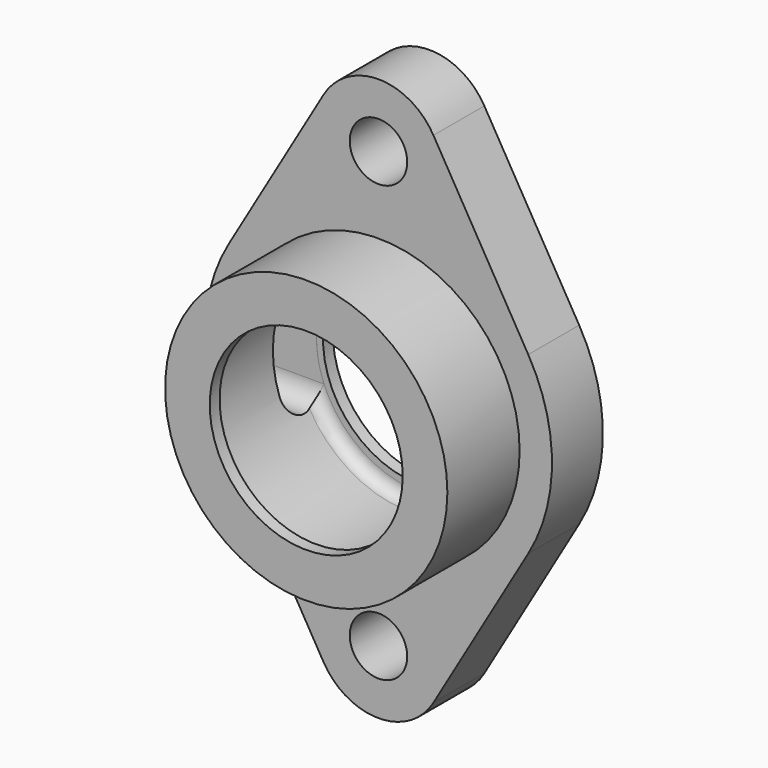
from build123d import *

# Parameters (mm, degrees)
F0_R     = 7.112
F1_DEPTH = 15.748
F2_R     = 34.925
F3_DEPTH = 22.352
F6_R     = 23.876
F7_DEPTH = 38.101
F9_DEPTH = 42.927


with BuildPart() as f1:
    # F0 (on Front) → F1 (new body)
    with BuildSketch(Plane.XZ):
        with BuildLine():
            Line((-13.59501, 61.796283), (-37.057366, 21.665481))
            ThreePointArc((-37.057366, 21.665481), (-42.926, 0), (-37.057366, -21.665481))
            Line((-37.057366, -21.665481), (-13.59501, -61.796283))
            ThreePointArc((-13.59501, -61.796283), (0, -69.596), (13.59501, -61.796283))
            Line((13.59501, -61.796283), (37.057366, -21.665481))
            ThreePointArc((37.057366, -21.665481), (42.926, 0), (37.057366, 21.665481))
            Line((37.057366, 21.665481), (13.59501, 61.796283))
            ThreePointArc((13.59501, 61.796283), (0, 69.596), (-13.59501, 61.796283))
        make_face()
        with Locations((0, -53.848)):
            Circle(F0_R, mode=Mode.SUBTRACT)
        with Locations((0, 53.848)):
            Circle(F0_R, mode=Mode.SUBTRACT)
    extrude(amount=F1_DEPTH)

    # F2 (on face) → F3 (join)
    with BuildSketch(Plane.XZ.offset(15.748)):
        Circle(F2_R)
    extrude(amount=F3_DEPTH)

    # F4 (on Top) → F5 (revolve, cut)
    with BuildSketch(Plane.XY):
        with BuildLine():
            Line((0, -35.052), (0, -3.048))
            Line((0, -3.048), (-25.527, -3.048))
            ThreePointArc((-25.527, -3.048), (-27.682261, -3.940739), (-28.575, -6.096))
            Line((-28.575, -6.096), (-28.575, -32.004))
            ThreePointArc((-28.575, -32.004), (-27.682261, -34.159261), (-25.527, -35.052))
            Line((-25.527, -35.052), (0, -35.052))
        make_face()
    revolve(axis=Axis((0, -19.05, 0), (0, -1, 0)), mode=Mode.SUBTRACT)

    # F6 (on face) → F7 (cut, through all)
    with BuildSketch(Plane.XZ.offset(38.1)):
        Circle(F6_R)
    extrude(amount=-F7_DEPTH, mode=Mode.SUBTRACT)

    # F8 (on Right) → F9 (cut, through all)
    with BuildSketch(Plane.YZ):
        with BuildLine():
            Line((-3.048001, -9.652), (-3.048001, 9.652))
            ThreePointArc((-3.048001, 9.652), (-7.874, 14.477999), (-12.699999, 9.652))
            Line((-12.699999, 9.652), (-12.699999, -9.652))
            ThreePointArc((-12.699999, -9.652), (-7.874, -14.477999), (-3.048001, -9.652))
        make_face()
    extrude(amount=-F9_DEPTH, mode=Mode.SUBTRACT)


solid = f1.part
